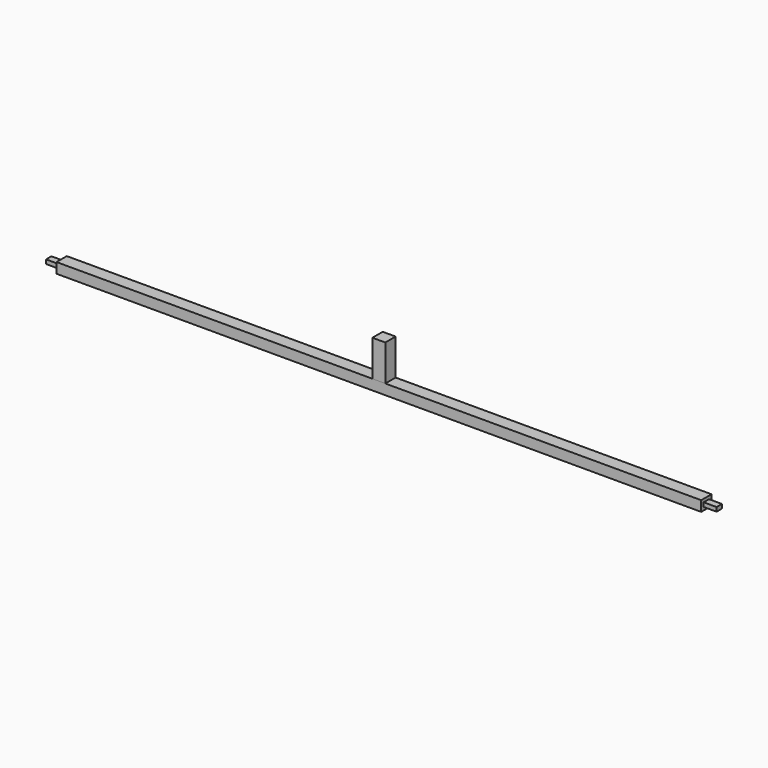
from build123d import *

# Parameters (mm, degrees)
F0_W     = 25
F0_H     = 20
F1_DEPTH = 625
F2_W     = 13
F2_H     = 8
F3_DEPTH = 25
F5_W     = 25
F5_H     = 25
F6_DEPTH = 70


with BuildPart() as f1:
    # F0 (on Right) → F1 (new body)
    with BuildSketch(Plane.YZ):
        with Locations((-17.360306, -0.804532)):
            Rectangle(F0_W, F0_H)
    extrude(amount=F1_DEPTH)

    # F2 (on face) → F3 (join)
    with BuildSketch(Plane(origin=(0, 0, 0), x_dir=(0, -1, 0), z_dir=(-1, 0, 0))):
        with Locations((17.360306, -0.804532)):
            Rectangle(F2_W, F2_H)
    extrude(amount=F3_DEPTH)

    # F4: F1 across face


with BuildPart() as f1_1:
    add(f1.part)
    add(f1.part.mirror(Plane(origin=(625, -17.360306, -0.804532), x_dir=(0, 1, 0), z_dir=(1, 0, 0))))


with BuildPart() as f6:
    # F5 (on face) → F6 (new body)
    with BuildSketch(Plane.XY.offset(9.195468)):
        with Locations((625, -17.360306)):
            Rectangle(F5_W, F5_H)
    extrude(amount=F6_DEPTH)


solid = Compound([f1_1.part, f6.part])
